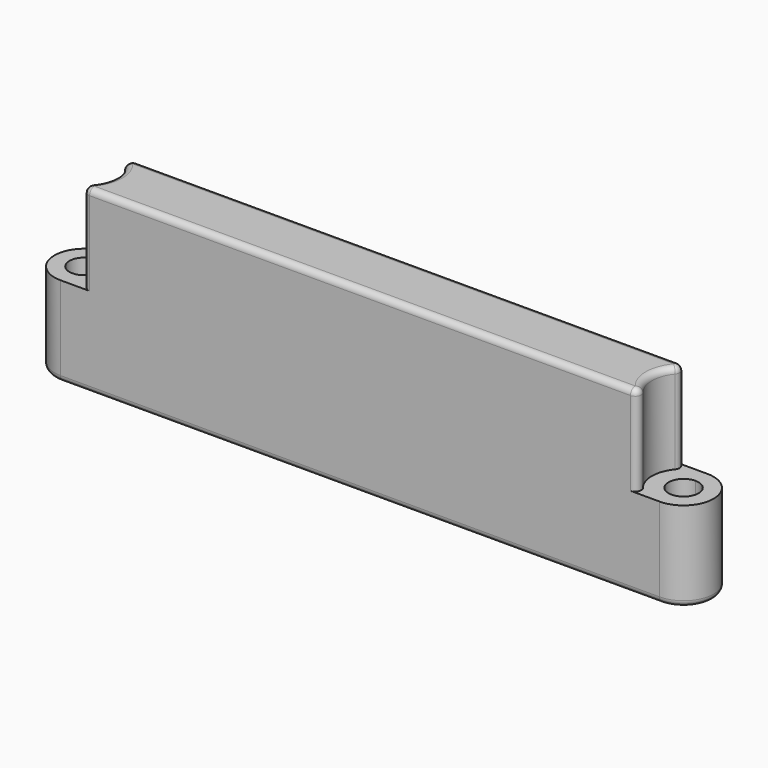
from build123d import *

# Parameters (mm, degrees)
F1_DEPTH = 30
F2_DEPTH = 15
F3_R     = 1
F4_R     = 1
F5_SIZE  = 1


with BuildPart() as f1:
    # F0 (on Top) → F1 (new body)
    with BuildSketch(Plane.XY):
        with BuildLine():
            Line((-6.0564657358, 20.029321317), (-102.5407865696, 20.029321317))
            ThreePointArc((-102.5407865696, 20.029321317), (-98.9986261527, 15.029321317), (-102.5407865696, 10.029321317))
            Line((-102.5407865696, 10.029321317), (-6.0564657358, 10.029321317))
            ThreePointArc((-6.0564657358, 10.029321317), (-9.5986261527, 15.029321317), (-6.0564657358, 20.029321317))
        make_face()
    extrude(amount=F1_DEPTH)

    # F0 (on Top) → F2 (join)
    with BuildSketch(Plane.XY):
        with BuildLine():
            Line((-104.2986261527, 17.529321317), (-104.2986261527, 20.029321317))
            ThreePointArc((-104.2986261527, 20.029321317), (-109.2986261527, 15.029321317), (-104.2986261527, 10.029321317))
            Line((-104.2986261527, 10.029321317), (-104.2986261527, 12.529321317))
            ThreePointArc((-104.2986261527, 12.529321317), (-106.7986261527, 15.029321317), (-104.2986261527, 17.529321317))
        make_face()
        with BuildLine():
            Line((-102.5407865696, 20.029321317), (-104.2986261527, 20.029321317))
            Line((-104.2986261527, 20.029321317), (-104.2986261527, 17.529321317))
            ThreePointArc((-104.2986261527, 17.529321317), (-102.5308591998, 16.7970882699), (-101.7986261527, 15.029321317))
            ThreePointArc((-101.7986261527, 15.029321317), (-102.5308591998, 13.261554364), (-104.2986261527, 12.529321317))
            Line((-104.2986261527, 12.529321317), (-104.2986261527, 10.029321317))
            Line((-104.2986261527, 10.029321317), (-102.5407865696, 10.029321317))
            ThreePointArc((-102.5407865696, 10.029321317), (-98.9986261527, 15.029321317), (-102.5407865696, 20.029321317))
        make_face()
        with BuildLine():
            ThreePointArc((-4.2986261527, 10.029321317), (0.7013738473, 15.029321317), (-4.2986261527, 20.029321317))
            Line((-4.2986261527, 20.029321317), (-4.2986261527, 17.529321317))
            ThreePointArc((-4.2986261527, 17.529321317), (-2.5308591998, 16.7970882699), (-1.7986261527, 15.029321317))
            ThreePointArc((-1.7986261527, 15.029321317), (-2.5308591998, 13.261554364), (-4.2986261527, 12.529321317))
            Line((-4.2986261527, 12.529321317), (-4.2986261527, 10.029321317))
        make_face()
        with BuildLine():
            Line((-4.2986261527, 20.029321317), (-6.0564657358, 20.029321317))
            ThreePointArc((-6.0564657358, 20.029321317), (-9.5986261527, 15.029321317), (-6.0564657358, 10.029321317))
            Line((-6.0564657358, 10.029321317), (-4.2986261527, 10.029321317))
            Line((-4.2986261527, 10.029321317), (-4.2986261527, 12.529321317))
            ThreePointArc((-4.2986261527, 12.529321317), (-6.7986261527, 15.029321317), (-4.2986261527, 17.529321317))
            Line((-4.2986261527, 17.529321317), (-4.2986261527, 20.029321317))
        make_face()
    extrude(amount=F2_DEPTH)

    # F3
    f3_edges = [f1.edges().sort_by_distance(p)[0] for p in [
        (-102.540787, 20.029321, 22.5),
        (-102.540787, 10.029321, 22.5),
        (-6.056466, 20.029321, 22.5),
        (-6.056466, 10.029321, 22.5),
    ]]
    fillet(f3_edges, radius=F3_R)

    # F4
    f4_edges = [f1.edges().sort_by_distance(p)[0] for p in [
        (-54.298626, 20.029321, 30),
        (-54.298626, 10.029321, 0),
    ]]
    fillet(f4_edges, radius=F4_R)

    # F5
    f5_edges = [f1.edges().sort_by_distance(p)[0] for p in [
        (-104.298626, 12.529321, 0),
        (-4.298626, 17.529321, 0),
    ]]
    chamfer(f5_edges, length=F5_SIZE)


solid = f1.part
